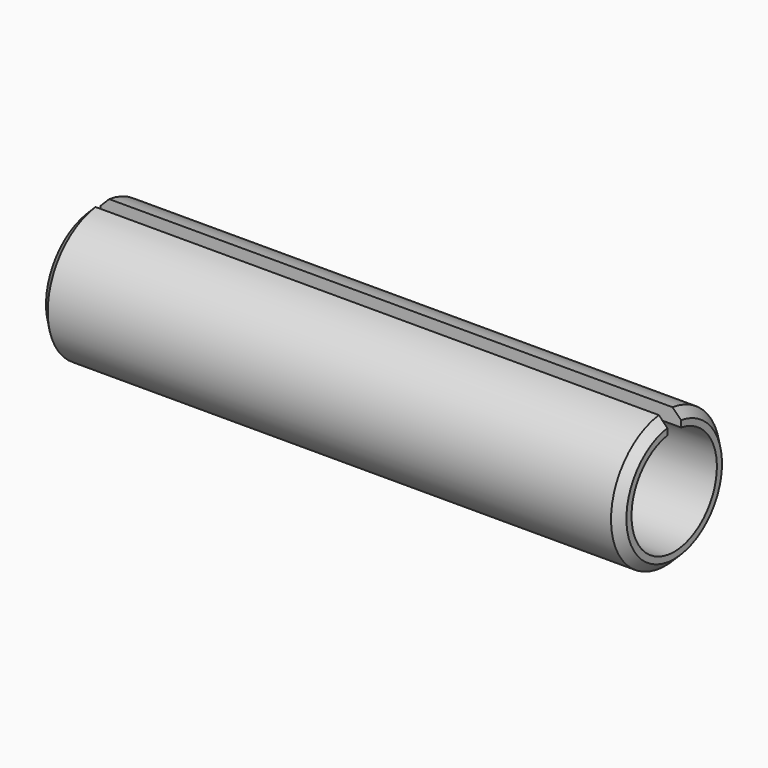
from build123d import *

# Parameters (mm, degrees)
F1_DEPTH = 6.8
F2_SIZE  = 0.1
F3_SIZE  = 0.1


with BuildPart() as f1:
    # F0 (on Right) → F1 (new body)
    with BuildSketch(Plane.YZ):
        with BuildLine():
            ThreePointArc((0.1, 0.616948), (0, -0.625), (-0.1, 0.616948))
            Line((-0.1, 0.616948), (-0.1, 0.793725))
            ThreePointArc((-0.1, 0.793725), (0, -0.8), (0.1, 0.793725))
            Line((0.1, 0.793725), (0.1, 0.616948))
        make_face()
    extrude(amount=F1_DEPTH)

    # F2
    f2_edges = [f1.edges().sort_by_distance(p)[0] for p in [
        (6.8, 0, -0.8),
    ]]
    chamfer(f2_edges, length=F2_SIZE)

    # F3
    f3_edges = [f1.edges().sort_by_distance(p)[0] for p in [
        (0, 0, -0.8),
    ]]
    chamfer(f3_edges, length=F3_SIZE)


solid = f1.part
